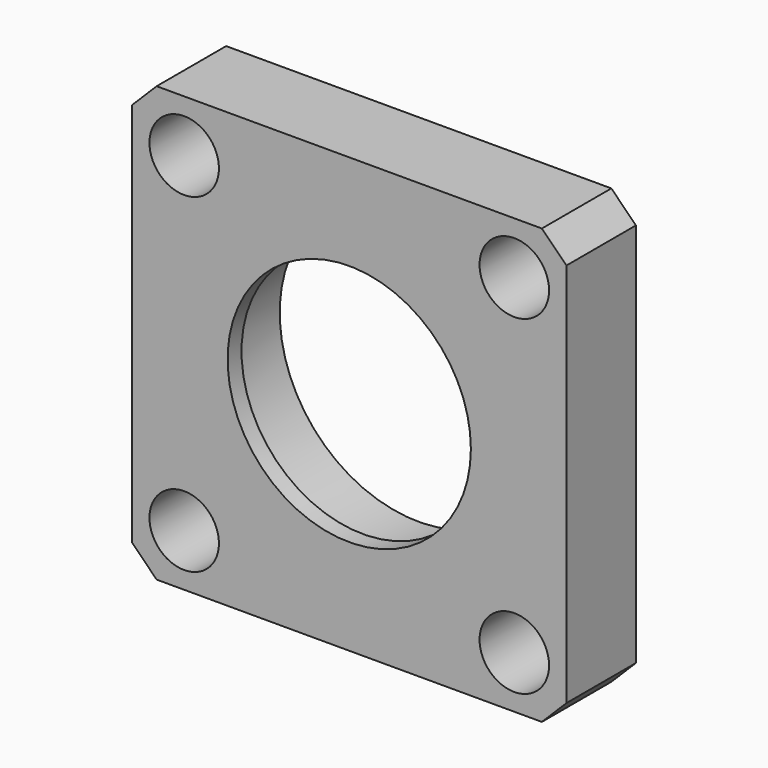
from build123d import *

# Parameters (mm, degrees)
F0_W     = 39.6875
F0_H     = 39.6875
F0_R     = 3.175
F0_R_2   = 12.7
F0_R_3   = 11.1125
F1_DEPTH = 7.9375
F2_DEPTH = 6.35
F3_SIZE  = 2.245403


with BuildPart() as f1:
    # F0 (on Front) → F1 (new body)
    with BuildSketch(Plane.XZ):
        Rectangle(F0_W, F0_H)
        with Locations((-15.08125, -15.08125)):
            Circle(F0_R, mode=Mode.SUBTRACT)
        with Locations((15.08125, -15.08125)):
            Circle(F0_R, mode=Mode.SUBTRACT)
        with Locations((-15.08125, 15.08125)):
            Circle(F0_R, mode=Mode.SUBTRACT)
        Circle(F0_R_2, mode=Mode.SUBTRACT)
        with Locations((15.08125, 15.08125)):
            Circle(F0_R, mode=Mode.SUBTRACT)
        Circle(F0_R_2)
        Circle(F0_R_3, mode=Mode.SUBTRACT)
    extrude(amount=F1_DEPTH)

    # F0 (on Front) → F2 (cut)
    with BuildSketch(Plane.XZ):
        Circle(F0_R_2)
        Circle(F0_R_3, mode=Mode.SUBTRACT)
    extrude(amount=F2_DEPTH, mode=Mode.SUBTRACT)

    # F3
    f3_edges = [f1.edges().sort_by_distance(p)[0] for p in [
        (19.84375, -3.96875, 19.84375),
        (19.84375, -3.96875, -19.84375),
        (-19.84375, -3.96875, -19.84375),
        (-19.84375, -3.96875, 19.84375),
    ]]
    chamfer(f3_edges, length=F3_SIZE)


solid = f1.part
